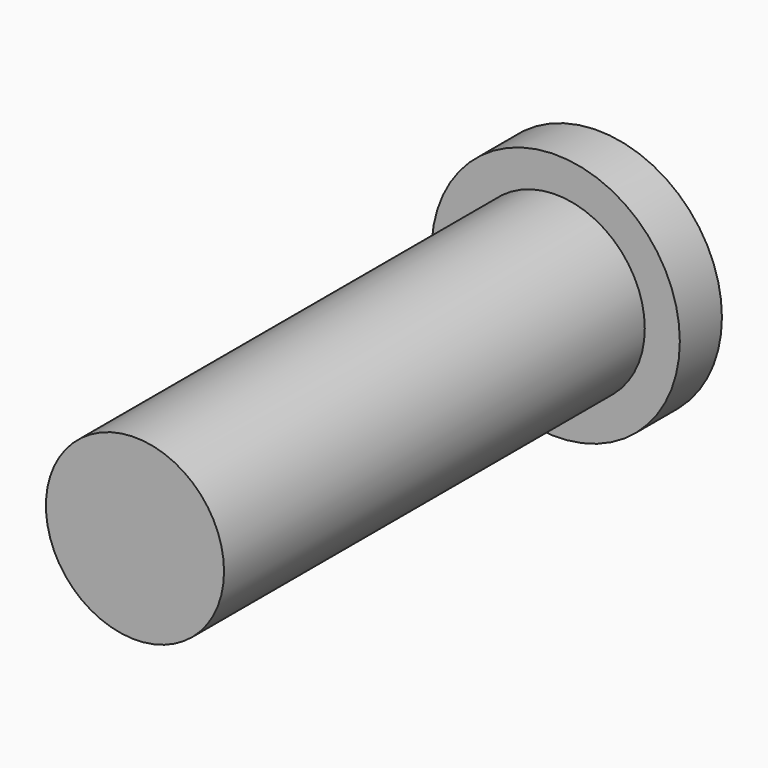
from build123d import *

# Parameters (mm, degrees)
F0_R     = 25.4
F1_DEPTH = 150
F2_R     = 35.4
F3_DEPTH = 15


with BuildPart() as f1:
    # F0 (on Front) → F1 (new body)
    with BuildSketch(Plane.XZ):
        Circle(F0_R)
    extrude(amount=F1_DEPTH)

    # F2 (on Front) → F3 (join)
    with BuildSketch(Plane.XZ):
        Circle(F2_R)
    extrude(amount=-F3_DEPTH)


solid = f1.part
